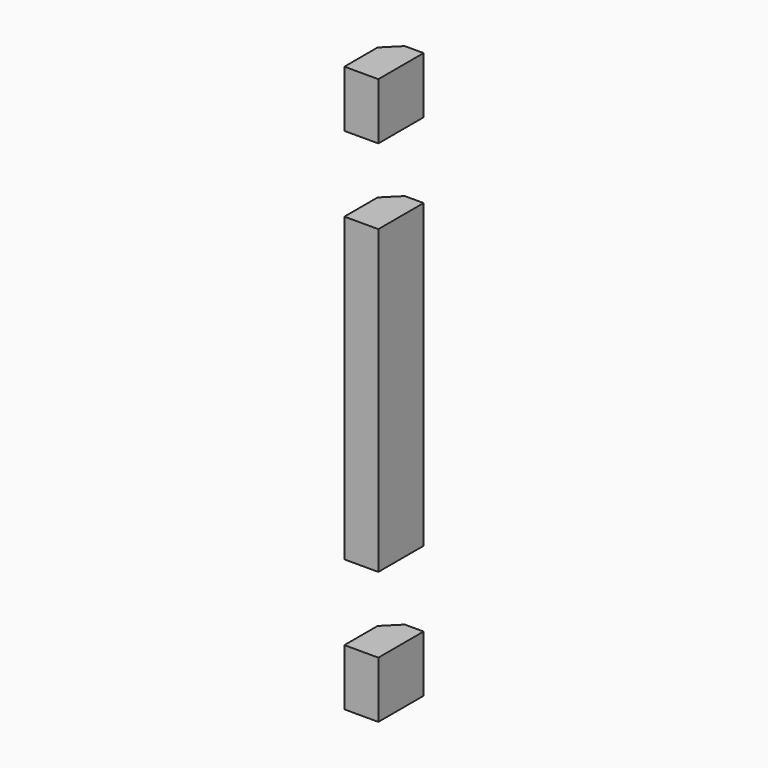
from build123d import *

# Parameters (mm, degrees)
BOX001_W     = 1.8
BOX001_H     = 3
BOX001_DEPTH = 16
BOX003_W     = 1.8
BOX003_H     = 3
BOX003_DEPTH = 3
BOX002_W     = 1.8
BOX002_H     = 3
BOX002_DEPTH = 3
CHAMFER_SIZE = 0.8


with BuildPart() as cube001:
    # Box001 → Box001 (new body)
    with BuildSketch(Plane(origin=(-0.8, 6, 7), x_dir=(1, 0, 0), z_dir=(0, 0, 1))):
        with Locations((0.9, 1.5)):
            Rectangle(BOX001_W, BOX001_H)
    extrude(amount=BOX001_DEPTH)


with BuildPart() as cube003:
    # Box003 → Box003 (new body)
    with BuildSketch(Plane(origin=(-0.8, 6, 27), x_dir=(1, 0, 0), z_dir=(0, 0, 1))):
        with Locations((0.9, 1.5)):
            Rectangle(BOX003_W, BOX003_H)
    extrude(amount=BOX003_DEPTH)


with BuildPart() as chamfer_body:
    # Box002 → Box002 (new body)
    with BuildSketch(Plane(origin=(-0.8, 6, 0), x_dir=(1, 0, 0), z_dir=(0, 0, 1))):
        with Locations((0.9, 1.5)):
            Rectangle(BOX002_W, BOX002_H)
    extrude(amount=BOX002_DEPTH)

    # Fusion: union Cube001, Cube003
    add(cube001.part)
    add(cube003.part)

    # Chamfer
    chamfer_edges = [chamfer_body.edges().sort_by_distance(p)[0] for p in [
        (-0.8, 9, 1.5),
        (-0.8, 9, 15),
        (-0.8, 9, 28.5),
    ]]
    chamfer(chamfer_edges, length=CHAMFER_SIZE)


solid = chamfer_body.part
